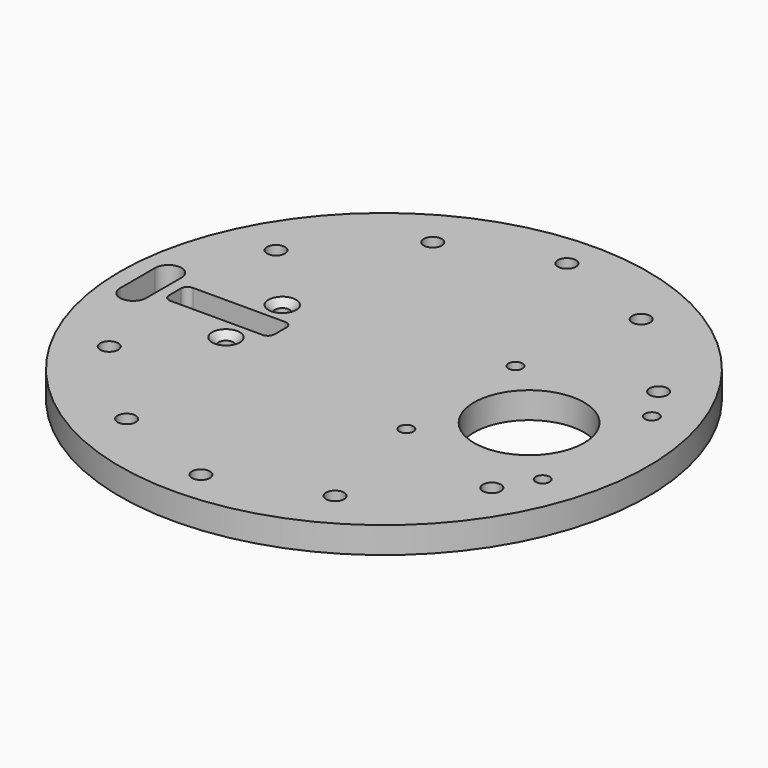
from build123d import *

# Parameters (mm, degrees)
SKETCH_R        = 1.65
SKETCH_W        = 24
SKETCH_H        = 6.4
PAD_DEPTH       = 6
CHAMFER_SIZE    = 2.75
CHAMFER001_SIZE = 1.5
FILLET_R        = 1.5


with BuildPart() as part:
    # Sketch → Pad (new body)
    with BuildSketch(Plane.XY):
        with BuildLine():
            ThreePointArc((60, 0), (0, 60), (-60, 0))
            ThreePointArc((-60, 0), (0, -60), (60, 0))
        make_face()
        with Locations((-29.5, 8)):
            Circle(SKETCH_R, mode=Mode.SUBTRACT)
        with Locations((-29.5, -8)):
            Circle(SKETCH_R, mode=Mode.SUBTRACT)
        with BuildLine():
            ThreePointArc((-2.05, -52), (0, -54.05), (2.05, -52))
            ThreePointArc((2.05, -52), (0, -49.95), (-2.05, -52))
        make_face(mode=Mode.SUBTRACT)
        with BuildLine():
            ThreePointArc((21.638077, -43.487067), (23.688077, -45.537067), (25.738077, -43.487067))
            ThreePointArc((25.738077, -43.487067), (23.688077, -41.437067), (21.638077, -43.487067))
        make_face(mode=Mode.SUBTRACT)
        with BuildLine():
            ThreePointArc((41.437067, -23.688077), (43.487067, -25.738077), (45.537067, -23.688077))
            ThreePointArc((45.537067, -23.688077), (43.487067, -21.638077), (41.437067, -23.688077))
        make_face(mode=Mode.SUBTRACT)
        with BuildLine():
            ThreePointArc((41.437067, 23.688077), (43.487067, 21.638077), (45.537067, 23.688077))
            ThreePointArc((45.537067, 23.688077), (43.487067, 25.738077), (41.437067, 23.688077))
        make_face(mode=Mode.SUBTRACT)
        with BuildLine():
            ThreePointArc((21.638077, 43.487067), (23.688077, 41.437067), (25.738077, 43.487067))
            ThreePointArc((25.738077, 43.487067), (23.688077, 45.537067), (21.638077, 43.487067))
        make_face(mode=Mode.SUBTRACT)
        with BuildLine():
            ThreePointArc((-2.05, 52), (0, 49.95), (2.05, 52))
            ThreePointArc((2.05, 52), (0, 54.05), (-2.05, 52))
        make_face(mode=Mode.SUBTRACT)
        with BuildLine():
            ThreePointArc((-25.738077, 43.487067), (-23.688077, 41.437067), (-21.638077, 43.487067))
            ThreePointArc((-21.638077, 43.487067), (-23.688077, 45.537067), (-25.738077, 43.487067))
        make_face(mode=Mode.SUBTRACT)
        with BuildLine():
            ThreePointArc((-45.537067, 23.688077), (-43.487067, 21.638077), (-41.437067, 23.688077))
            ThreePointArc((-41.437067, 23.688077), (-43.487067, 25.738077), (-45.537067, 23.688077))
        make_face(mode=Mode.SUBTRACT)
        with BuildLine():
            ThreePointArc((-45.537067, -23.688077), (-43.487067, -25.738077), (-41.437067, -23.688077))
            ThreePointArc((-41.437067, -23.688077), (-43.487067, -21.638077), (-45.537067, -23.688077))
        make_face(mode=Mode.SUBTRACT)
        with BuildLine():
            ThreePointArc((-25.738077, -43.487067), (-23.688077, -45.537067), (-21.638077, -43.487067))
            ThreePointArc((-21.638077, -43.487067), (-23.688077, -41.437067), (-25.738077, -43.487067))
        make_face(mode=Mode.SUBTRACT)
        with BuildLine():
            ThreePointArc((15.9, -15.5), (17.5, -17.1), (19.1, -15.5))
            ThreePointArc((19.1, -15.5), (17.5, -13.9), (15.9, -15.5))
        make_face(mode=Mode.SUBTRACT)
        with BuildLine():
            ThreePointArc((15.9, 15.5), (17.5, 13.9), (19.1, 15.5))
            ThreePointArc((19.1, 15.5), (17.5, 17.1), (15.9, 15.5))
        make_face(mode=Mode.SUBTRACT)
        with BuildLine():
            ThreePointArc((46.9, 15.5), (48.5, 13.9), (50.1, 15.5))
            ThreePointArc((50.1, 15.5), (48.5, 17.1), (46.9, 15.5))
        make_face(mode=Mode.SUBTRACT)
        with BuildLine():
            ThreePointArc((46.9, -15.5), (48.5, -17.1), (50.1, -15.5))
            ThreePointArc((50.1, -15.5), (48.5, -13.9), (46.9, -15.5))
        make_face(mode=Mode.SUBTRACT)
        with BuildLine():
            ThreePointArc((20.5, 0), (33, -12.5), (45.5, 0))
            ThreePointArc((45.5, 0), (33, 12.5), (20.5, 0))
        make_face(mode=Mode.SUBTRACT)
        with Locations((-35.5, 0)):
            Rectangle(SKETCH_W, SKETCH_H, mode=Mode.SUBTRACT)
        with BuildLine():
            ThreePointArc((-50, 5), (-53, 8), (-56, 5))
            Line((-56, 5), (-56, -5))
            ThreePointArc((-56, -5), (-53, -8), (-50, -5))
            Line((-50, 5), (-50, -5))
        make_face(mode=Mode.SUBTRACT)
    extrude(amount=PAD_DEPTH)

    # Chamfer
    chamfer_edges = [part.edges().sort_by_distance(p)[0] for p in [
        (43.487067, -25.738077, 0),
        (-43.487067, 21.638077, 0),
        (43.487067, 21.638077, 0),
        (0, 49.95, 0),
        (0, -54.05, 0),
        (23.688077, 41.437067, 0),
        (-43.487067, -25.738077, 0),
        (-23.688077, 41.437067, 0),
        (-23.688077, -45.537067, 0),
        (23.688077, -45.537067, 0),
    ]]
    chamfer(chamfer_edges, length=CHAMFER_SIZE)

    # Chamfer001
    chamfer001_edges = [part.edges().sort_by_distance(p)[0] for p in [
        (-31.15, -8, 6),
        (-31.15, 8, 6),
    ]]
    chamfer(chamfer001_edges, length=CHAMFER001_SIZE)

    # Fillet
    fillet_edges = [part.edges().sort_by_distance(p)[0] for p in [
        (-23.5, 3.2, 3),
        (-23.5, -3.2, 3),
        (-47.5, 3.2, 3),
        (-47.5, -3.2, 3),
    ]]
    fillet(fillet_edges, radius=FILLET_R)


solid = part.part
